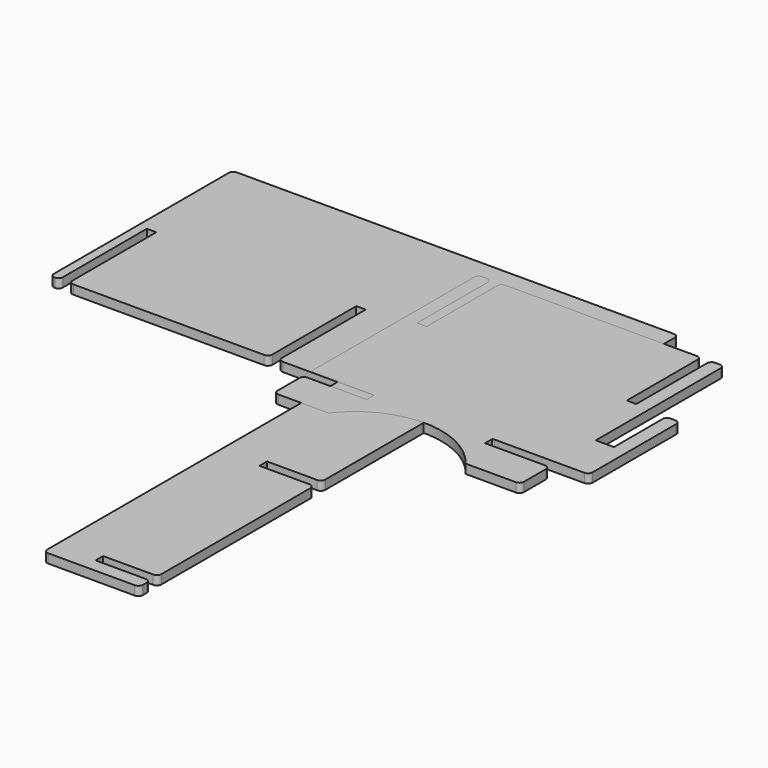
from build123d import *

# Parameters (mm, degrees)
F3_DEPTH = 6.35
F4_DEPTH = 6.35
F5_DEPTH = 6.35
F6_DEPTH = 6.35


with BuildPart() as f3:
    # F1 (on Top) → F3 (new body)
    with BuildSketch(Plane.XY):
        with BuildLine():
            Line((82.649146, 61.440174), (22.324146, 61.440174))
            ThreePointArc((22.324146, 61.440174), (20.079082, 60.510238), (19.149146, 58.265174))
            Line((19.149146, 58.265174), (19.149146, -246.788826))
            ThreePointArc((19.149146, -246.788826), (20.079082, -249.03389), (22.324146, -249.963826))
            Line((22.324146, -249.963826), (82.649146, -249.963826))
            ThreePointArc((82.649146, -249.963826), (84.89421, -249.03389), (85.824146, -246.788826))
            Line((85.824146, -246.788826), (85.824146, -243.613826))
            ThreePointArc((85.824146, -243.613826), (84.89421, -241.368762), (82.649146, -240.438826))
            Line((82.649146, -240.438826), (47.724146, -240.438826))
            Line((47.724146, -240.438826), (47.724146, -233.834826))
            Line((47.724146, -233.834826), (82.649146, -233.834826))
            ThreePointArc((82.649146, -233.834826), (84.89421, -232.90489), (85.824146, -230.659826))
            Line((85.824146, -230.659826), (85.824146, -100.738826))
            ThreePointArc((85.824146, -100.738826), (84.89421, -98.493762), (82.649146, -97.563826))
            Line((82.649146, -97.563826), (47.724146, -97.563826))
            Line((47.724146, -97.563826), (47.724146, -90.959826))
            Line((47.724146, -90.959826), (82.649146, -90.959826))
            ThreePointArc((82.649146, -90.959826), (84.89421, -90.02989), (85.824146, -87.784826))
            Line((85.824146, -87.784826), (85.824146, 42.136174))
            ThreePointArc((85.824146, 42.136174), (84.89421, 44.381238), (82.649146, 45.311174))
            Line((82.649146, 45.311174), (47.724146, 45.311174))
            Line((47.724146, 45.311174), (47.724146, 51.915174))
            Line((47.724146, 51.915174), (82.649146, 51.915174))
            ThreePointArc((82.649146, 51.915174), (84.89421, 52.84511), (85.824146, 55.090174))
            Line((85.824146, 55.090174), (85.824146, 58.265174))
            ThreePointArc((85.824146, 58.265174), (84.89421, 60.510238), (82.649146, 61.440174))
        make_face()
    extrude(amount=F3_DEPTH)

    # F1 (on Top) → F4 (join)
    with BuildSketch(Plane.XY):
        with BuildLine():
            Line((82.649146, 61.440174), (22.324146, 61.440174))
            ThreePointArc((22.324146, 61.440174), (20.079082, 60.510238), (19.149146, 58.265174))
            Line((19.149146, 58.265174), (19.149146, -246.788826))
            ThreePointArc((19.149146, -246.788826), (20.079082, -249.03389), (22.324146, -249.963826))
            Line((22.324146, -249.963826), (82.649146, -249.963826))
            ThreePointArc((82.649146, -249.963826), (84.89421, -249.03389), (85.824146, -246.788826))
            Line((85.824146, -246.788826), (85.824146, -243.613826))
            ThreePointArc((85.824146, -243.613826), (84.89421, -241.368762), (82.649146, -240.438826))
            Line((82.649146, -240.438826), (47.724146, -240.438826))
            Line((47.724146, -240.438826), (47.724146, -233.834826))
            Line((47.724146, -233.834826), (82.649146, -233.834826))
            ThreePointArc((82.649146, -233.834826), (84.89421, -232.90489), (85.824146, -230.659826))
            Line((85.824146, -230.659826), (85.824146, -100.738826))
            ThreePointArc((85.824146, -100.738826), (84.89421, -98.493762), (82.649146, -97.563826))
            Line((82.649146, -97.563826), (47.724146, -97.563826))
            Line((47.724146, -97.563826), (47.724146, -90.959826))
            Line((47.724146, -90.959826), (82.649146, -90.959826))
            ThreePointArc((82.649146, -90.959826), (84.89421, -90.02989), (85.824146, -87.784826))
            Line((85.824146, -87.784826), (85.824146, 42.136174))
            ThreePointArc((85.824146, 42.136174), (84.89421, 44.381238), (82.649146, 45.311174))
            Line((82.649146, 45.311174), (47.724146, 45.311174))
            Line((47.724146, 45.311174), (47.724146, 51.915174))
            Line((47.724146, 51.915174), (82.649146, 51.915174))
            ThreePointArc((82.649146, 51.915174), (84.89421, 52.84511), (85.824146, 55.090174))
            Line((85.824146, 55.090174), (85.824146, 58.265174))
            ThreePointArc((85.824146, 58.265174), (84.89421, 60.510238), (82.649146, 61.440174))
        make_face()
    extrude(amount=F4_DEPTH)


with BuildPart() as f5:
    # F2 (on Top) → F5 (new body)
    with BuildSketch(Plane.XY):
        with BuildLine():
            ThreePointArc((129.922354, 161.798257), (128.992418, 164.043321), (126.747354, 164.973257))
            Line((126.747354, 164.973257), (-178.052646, 164.973257))
            ThreePointArc((-178.052646, 164.973257), (-180.29771, 164.043321), (-181.227646, 161.798257))
            Line((-181.227646, 161.798257), (-181.227646, 9.398257))
            ThreePointArc((-181.227646, 9.398257), (-180.29771, 7.153193), (-178.052646, 6.223257))
            ThreePointArc((-178.052646, 6.223257), (-175.807582, 7.153193), (-174.877646, 9.398257))
            Line((-174.877646, 9.398257), (-174.877646, 82.423257))
            Line((-174.877646, 82.423257), (-168.273646, 82.423257))
            Line((-168.273646, 82.423257), (-168.273646, 9.398257))
            ThreePointArc((-168.273646, 9.398257), (-167.34371, 7.153193), (-165.098646, 6.223257))
            Line((-165.098646, 6.223257), (-31.987469, 6.223257))
            ThreePointArc((-31.987469, 6.223257), (-29.742405, 7.153193), (-28.812469, 9.398257))
            Line((-28.812469, 9.398257), (-28.812469, 82.423257))
            Line((-28.812469, 82.423257), (-22.210363, 82.581408))
            Line((-22.210363, 82.581408), (-22.210363, 9.398257))
            ThreePointArc((-22.210363, 9.398257), (-21.280427, 7.153193), (-19.035363, 6.223257))
            Line((-19.035363, 6.223257), (113.793354, 6.223257))
            ThreePointArc((113.793354, 6.223257), (116.038418, 7.153193), (116.968354, 9.398257))
            Line((116.968354, 9.398257), (116.968354, 82.423257))
            Line((116.968354, 82.423257), (123.572354, 82.423257))
            Line((123.572354, 82.423257), (123.572354, 9.398257))
            ThreePointArc((123.572354, 9.398257), (124.50229, 7.153193), (126.747354, 6.223257))
            ThreePointArc((126.747354, 6.223257), (128.992418, 7.153193), (129.922354, 9.398257))
            Line((129.922354, 9.398257), (129.922354, 161.798257))
        make_face()
    extrude(amount=F5_DEPTH)


with BuildPart() as f6:
    # F0 (on Top) → F6 (new body)
    with BuildSketch(Plane.XY):
        with BuildLine():
            Line((0, 149.225), (0, 9.779))
            ThreePointArc((0, 9.779), (0.929936, 7.533936), (3.175, 6.604))
            Line((3.175, 6.604), (44.45, 6.604))
            Line((44.45, 6.604), (44.45, 0))
            Line((44.45, 0), (3.175, 0))
            ThreePointArc((3.175, 0), (0.929936, -0.929936), (0, -3.175))
            Line((0, -3.175), (0, -22.225))
            ThreePointArc((0, -22.225), (0.929936, -24.470064), (3.175, -25.4))
            Line((3.175, -25.4), (38.1, -25.4))
            ThreePointArc((38.1, -25.4), (85.979, -1.856854), (133.858, -25.4))
            Line((133.858, -25.4), (168.783, -25.4))
            ThreePointArc((168.783, -25.4), (171.028064, -24.470064), (171.958, -22.225))
            Line((171.958, -22.225), (171.958, -3.175))
            ThreePointArc((171.958, -3.175), (171.028064, -0.929936), (168.783, 0))
            Line((168.783, 0), (127, 0))
            Line((127, 0), (127, 6.604))
            Line((127, 6.604), (171.958, 6.604))
            Line((171.958, 6.604), (191.008, 6.604))
            ThreePointArc((191.008, 6.604), (193.253064, 7.533936), (194.183, 9.779))
            Line((194.183, 9.779), (194.183, 82.69941))
            ThreePointArc((194.183, 82.69941), (193.253064, 84.944474), (191.008, 85.87441))
            Line((191.008, 85.87441), (187.833, 85.87441))
            ThreePointArc((187.833, 85.87441), (185.587936, 84.944474), (184.658, 82.69941))
            Line((184.658, 82.69941), (184.658, 40.294755))
            Line((184.658, 40.294755), (171.958, 40.294755))
            Line((171.958, 40.294755), (171.958, 149.225))
            ThreePointArc((171.958, 149.225), (171.028064, 151.470064), (168.783, 152.4))
            Line((168.783, 152.4), (165.608, 152.4))
            ThreePointArc((165.608, 152.4), (163.362936, 151.470064), (162.433, 149.225))
            Line((162.433, 149.225), (162.433, 87.559589))
            Line((162.433, 87.559589), (155.829, 87.559589))
            Line((155.829, 87.559589), (155.829, 149.225))
            ThreePointArc((155.829, 149.225), (154.899064, 151.470064), (152.654, 152.4))
            Line((152.654, 152.4), (19.304, 152.4))
            ThreePointArc((19.304, 152.4), (17.058936, 151.470064), (16.129, 149.225))
            Line((16.129, 149.225), (16.129, 87.559589))
            Line((16.129, 87.559589), (9.525, 87.559589))
            Line((9.525, 87.559589), (9.525, 149.225))
            ThreePointArc((9.525, 149.225), (8.595064, 151.470064), (6.35, 152.4))
            Line((6.35, 152.4), (3.175, 152.4))
            ThreePointArc((3.175, 152.4), (0.929936, 151.470064), (0, 149.225))
        make_face()
    extrude(amount=F6_DEPTH)


solid = Compound([f3.part, f5.part, f6.part])
